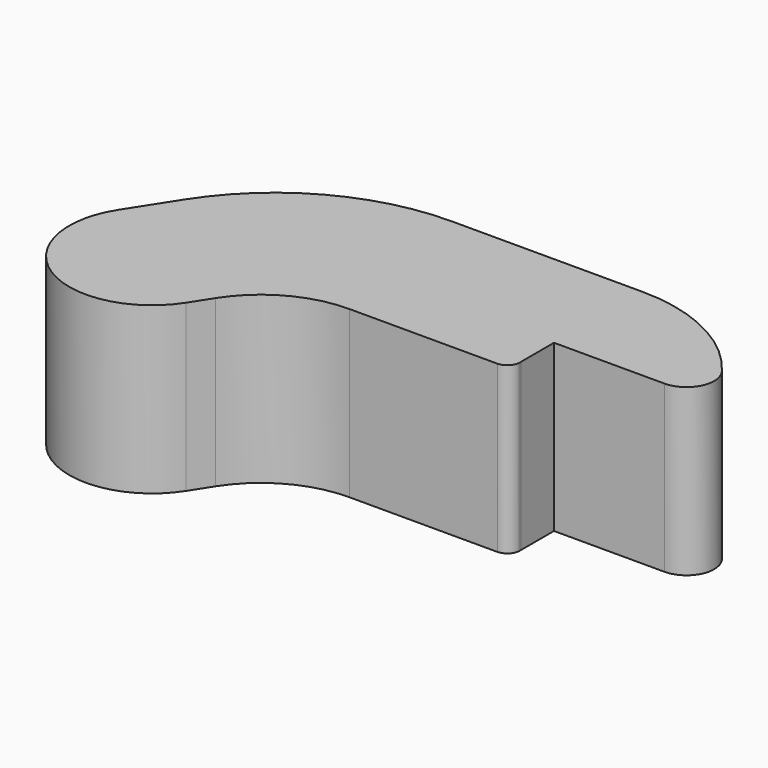
from build123d import *

# Parameters (mm, degrees)
F1_DEPTH = 19.05


with BuildPart() as f1:
    # F0 (on Top) → F1 (new body)
    with BuildSketch(Plane.XY):
        with BuildLine():
            Line((12.844267, 20.050839), (9.469417, 14.782452))
            ThreePointArc((9.469417, 14.782452), (12.352107, 1.624134), (25.510425, 4.506823))
            Line((25.510425, 4.506823), (27.011698, 6.850419))
            ThreePointArc((27.011698, 6.850419), (31.611047, 11.142045), (37.705703, 12.7))
            Line((37.705703, 12.7), (54.747131, 12.7))
            ThreePointArc((54.747131, 12.7), (55.702466, 13.089829), (56.158852, 14.015217))
            Line((56.158852, 14.015217), (56.158852, 14.292851))
            Line((56.158852, 14.292851), (56.158852, 19.05))
            Line((56.158852, 19.05), (68.858852, 19.05))
            ThreePointArc((68.858852, 19.05), (71.698658, 20.805097), (71.398852, 24.13))
            ThreePointArc((71.398852, 24.13), (64.678271, 29.738838), (56.158852, 31.75))
            Line((56.158852, 31.75), (34.232277, 31.75))
            ThreePointArc((34.232277, 31.75), (22.042965, 28.63409), (12.844267, 20.050839))
        make_face()
        with BuildLine():
            Line((56.158852, 14.292851), (56.158852, 14.015217))
            ThreePointArc((56.158852, 14.015217), (56.165491, 14.154034), (56.158852, 14.292851))
        make_face()
    extrude(amount=F1_DEPTH)


solid = f1.part
